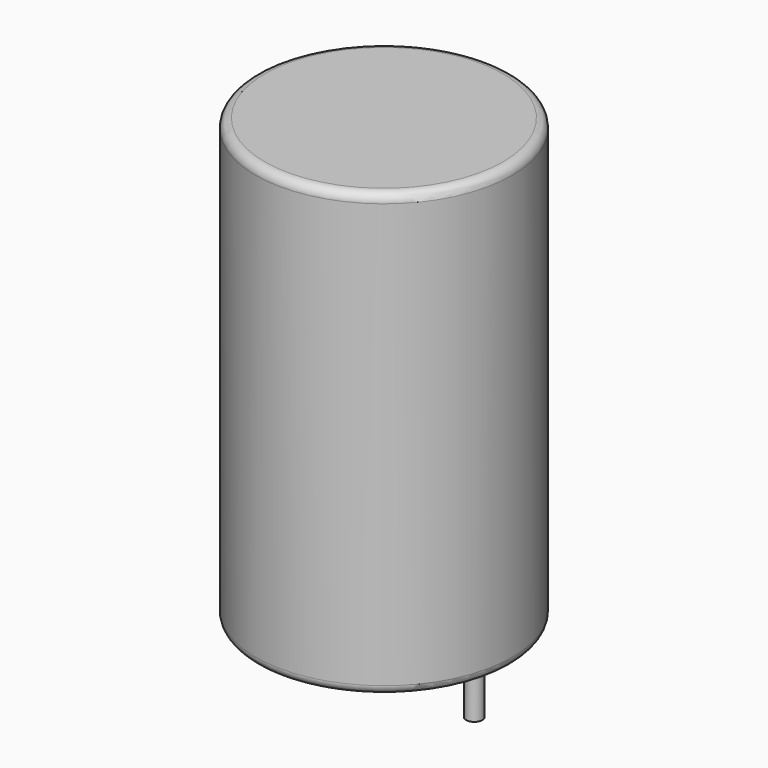
from build123d import *

# Parameters (mm, degrees)
SKETCH001_R       = 0.45
PAD001_DEPTH      = 12.25
PAD001_DEPTH_BACK = 3.5
SKETCH_R          = 7.1
PAD_DEPTH         = 24.5
FILLET_R          = 0.5


with BuildPart() as pad001:
    # Sketch001 → Pad001 (new body, two sides)
    with BuildSketch(Plane.XY.offset(0.5)) as pad001_sk:
        Circle(SKETCH001_R)
        with Locations((10, 0)):
            Circle(SKETCH001_R)
    extrude(amount=PAD001_DEPTH)
    extrude(pad001_sk.sketch, amount=-PAD001_DEPTH_BACK)


with BuildPart() as obj1:
    # Sketch → Pad (new body)
    with BuildSketch(Plane.XY.offset(0.1)):
        with Locations((5, 0)):
            Circle(SKETCH_R)
    extrude(amount=PAD_DEPTH)

    # Fillet
    fillet_edges = [obj1.edges().sort_by_distance(p)[0] for p in [
        (-2.1, 0, 0.1),
        (-2.1, 0, 24.6),
    ]]
    fillet(fillet_edges, radius=FILLET_R)

    add(pad001.part)


solid = obj1.part
